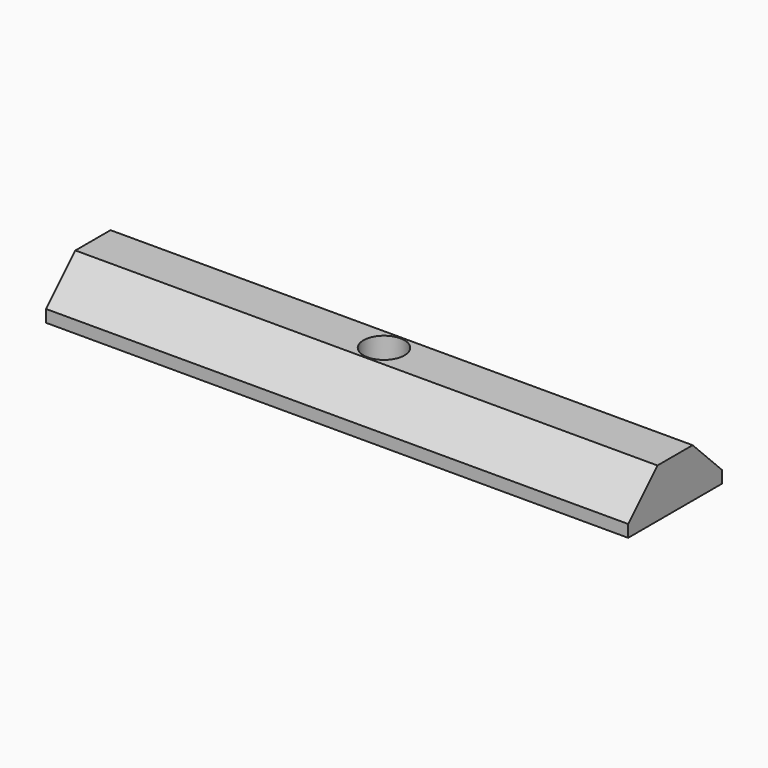
from build123d import *

# Parameters (mm, degrees)
F0_W     = 59.6
F0_H     = 3.75
F0_H_2   = 4.5
F0_R     = 2.1
F1_DEPTH = 5
F2_SIZE  = 3.75


with BuildPart() as f1:
    # F0 (on Top) → F1 (new body)
    with BuildSketch(Plane.XY):
        with Locations((0, 4.125)):
            Rectangle(F0_W, F0_H)
        Rectangle(F0_W, F0_H_2)
        Circle(F0_R, mode=Mode.SUBTRACT)
        with Locations((0, -4.125)):
            Rectangle(F0_W, F0_H)
    extrude(amount=F1_DEPTH)

    # F2
    f2_edges = [f1.edges().sort_by_distance(p)[0] for p in [
        (0, -6, 5),
        (0, 6, 5),
    ]]
    chamfer(f2_edges, length=F2_SIZE)


solid = f1.part
